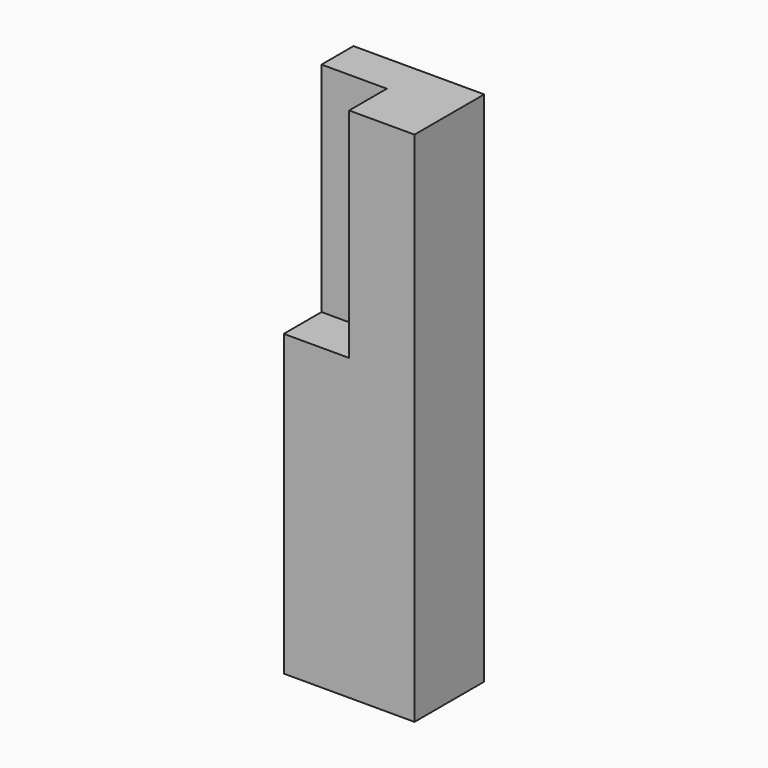
from build123d import *

# Parameters (mm, degrees)
F1_DEPTH = 25.4
F2_W     = 19.05
F2_H     = 12.7
F3_DEPTH = 75.346
F4_W     = 9.525
F4_H     = 31.75
F5_DEPTH = 6.86911


with BuildPart() as f1:
    # F0 (on Top) → F1 (new body)
    with BuildSketch(Plane.XY):
        Polygon((-29.351966, 28.390644), (-26.938852, 28.390644), (-26.938852, 29.035889), (-31.778164, 29.035889), (-31.778164, 28.390644), (-29.733038, 28.390644), (-29.733038, 24.046851), (-29.351966, 24.046851), align=None)
    extrude(amount=F1_DEPTH)


with BuildPart() as f3:
    # F2 (on Top) → F3 (new body)
    with BuildSketch(Plane.XY):
        with Locations((-9.525, 6.35)):
            Rectangle(F2_W, F2_H)
    extrude(amount=F3_DEPTH)

    # F4 (on face) → F5 (cut)
    with BuildSketch(Plane.XZ):
        with Locations((-14.2875, 59.471)):
            Rectangle(F4_W, F4_H)
    extrude(amount=-F5_DEPTH, mode=Mode.SUBTRACT)


solid = Compound([f1.part, f3.part])
